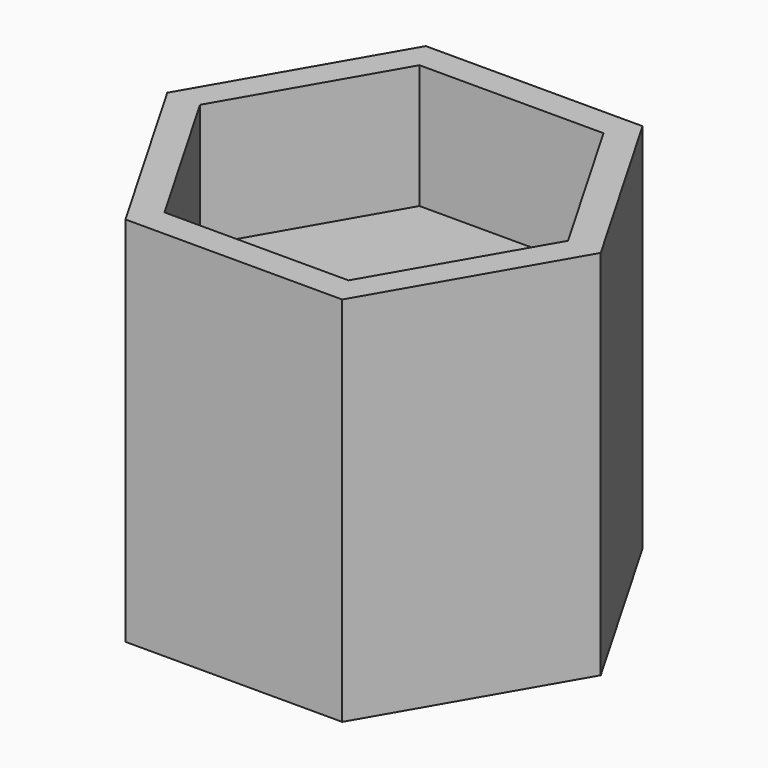
from build123d import *

# Parameters (mm, degrees)
F1_DEPTH = 14
F2_DEPTH = 7


with BuildPart() as f1:
    # F0 (on Top) → F1 (new body)
    with BuildSketch(Plane.XY):
        Polygon((-12.239826, 0.433735), (-6.119913, -10.166265), (6.119913, -10.166265), (12.239826, 0.433735), (6.119913, 11.033735), (-6.119913, 11.033735), align=None)
        Polygon((10.392305, 0.433735), (5.196152, -8.566265), (-5.196152, -8.566265), (-10.392305, 0.433735), (-5.196152, 9.433735), (5.196152, 9.433735), align=None, mode=Mode.SUBTRACT)
        Polygon((-5.196152, -8.566265), (5.196152, -8.566265), (10.392305, 0.433735), (5.196152, 9.433735), (-5.196152, 9.433735), (-10.392305, 0.433735), align=None)
    extrude(amount=-F1_DEPTH)

    # F0 (on Top) → F2 (join)
    with BuildSketch(Plane.XY):
        Polygon((-12.239826, 0.433735), (-6.119913, -10.166265), (6.119913, -10.166265), (12.239826, 0.433735), (6.119913, 11.033735), (-6.119913, 11.033735), align=None)
        Polygon((10.392305, 0.433735), (5.196152, -8.566265), (-5.196152, -8.566265), (-10.392305, 0.433735), (-5.196152, 9.433735), (5.196152, 9.433735), align=None, mode=Mode.SUBTRACT)
    extrude(amount=F2_DEPTH)


solid = f1.part
